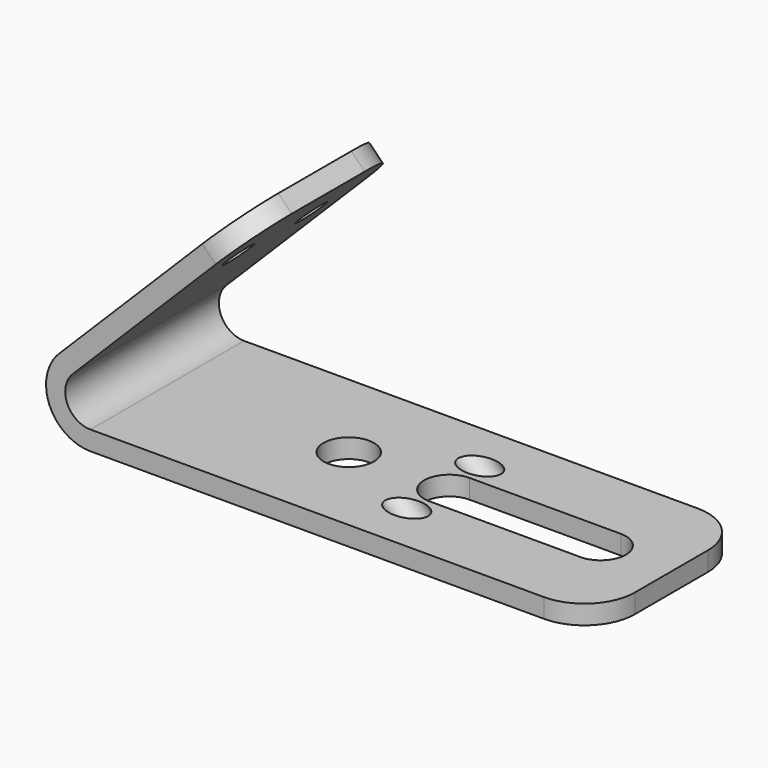
from build123d import *

# Parameters (mm, degrees)
F0_W     = 1270
F0_H     = 48.26
F1_DEPTH = 483.87
F2_R     = 63.5
F3_DEPTH = 48.261
F4_R     = 127
F5_R     = 38.1
F6_DEPTH = 1088.7905941503


with BuildPart() as f1:
    # F0 (on Front) → F1 (new body)
    with BuildSketch(Plane.XZ):
        with Locations((635, -24.13)):
            Rectangle(F0_W, F0_H)
        with BuildLine():
            Line((0, -48.26), (0, 0))
            ThreePointArc((0, 0), (-59.0920227604, 40.2369511729), (-43.3079228428, 109.9631412552))
            Line((-43.3079228428, 109.9631412552), (405.7048832106, 558.9759473086))
            Line((405.7048832106, 558.9759473086), (371.5799099506, 593.1009205687))
            Line((371.5799099506, 593.1009205687), (-77.4328961029, 144.0881145152))
            ThreePointArc((-77.4328961029, 144.0881145152), (-103.6745515501, 21.7641046473), (0, -48.26))
        make_face()
    extrude(amount=F1_DEPTH)

    # F2 (on face) → F3 (cut, through all)
    with BuildSketch(Plane.XY):
        with Locations((457.2, -241.935)):
            Circle(F2_R)
        with BuildLine():
            ThreePointArc((1092.2007215854, -305.9415523028), (1155.7007215854, -242.4415523028), (1092.2007215854, -178.9415523028))
            Line((1092.2007215854, -178.9415523028), (711.2007215854, -178.9415523028))
            ThreePointArc((711.2007215854, -178.9415523028), (647.7007215854, -242.4415523028), (711.2007215854, -305.9415523028))
            Line((711.2007215854, -305.9415523028), (1092.2007215854, -305.9415523028))
        make_face()
    extrude(amount=-F3_DEPTH, mode=Mode.SUBTRACT)

    # F4
    f4_edges = [f1.edges().sort_by_distance(p)[0] for p in [
        (388.642397, 0, 576.038434),
        (388.642397, -483.87, 576.038434),
        (1270, -483.87, -24.13),
        (1270, 0, -24.13),
    ]]
    fillet(f4_edges, radius=F4_R)

    # F5 (on face) → F6 (cut, through all)
    with BuildSketch(Plane(origin=(-110.7605053091, 0, 110.7605053091), x_dir=(0, -1, 0), z_dir=(-0.7071067812, 0, 0.7071067812))):
        with Locations((127, 491.6323569408)):
            Circle(F5_R)
        with Locations((356.87, 491.6323569408)):
            Circle(F5_R)
    extrude(amount=-F6_DEPTH, mode=Mode.SUBTRACT)


solid = f1.part
